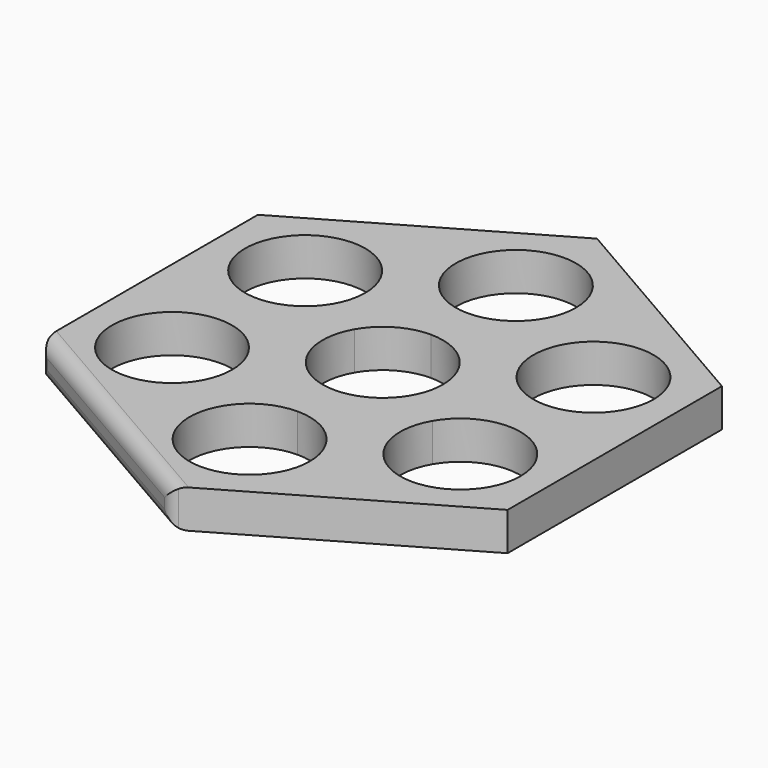
from build123d import *

# Parameters (mm, degrees)
F1_DEPTH = 6.985
F2_R     = 2.54


with BuildPart() as f1:
    # F0 (on Top) → F1 (new body)
    with BuildSketch(Plane.XY):
        with BuildLine():
            ThreePointArc((37.407354, -15.24), (29.246285, -4.604287), (16.860735, -9.73455))
            ThreePointArc((16.860735, -9.73455), (23.546624, -25.875713), (37.407354, -15.24))
        make_face()
        with BuildLine():
            ThreePointArc((11.0109, -30.48), (7.785882, -22.694118), (0, -19.4691))
            ThreePointArc((0, -19.4691), (-7.785882, -38.265882), (11.0109, -30.48))
        make_face()
        with BuildLine():
            ThreePointArc((-15.385554, -15.24), (-15.760742, -12.390169), (-16.860735, -9.73455))
            ThreePointArc((-16.860735, -9.73455), (-37.032167, -18.089831), (-15.385554, -15.24))
        make_face()
        with BuildLine():
            ThreePointArc((-15.385554, 15.24), (-37.032167, 18.089831), (-16.860735, 9.73455))
            ThreePointArc((-16.860735, 9.73455), (-15.760742, 12.390169), (-15.385554, 15.24))
        make_face()
        with BuildLine():
            ThreePointArc((11.0109, 30.48), (-7.785882, 38.265882), (0, 19.4691))
            ThreePointArc((0, 19.4691), (7.785882, 22.694118), (11.0109, 30.48))
        make_face()
        with BuildLine():
            ThreePointArc((37.407354, 15.24), (23.546624, 25.875713), (16.860735, 9.73455))
            ThreePointArc((16.860735, 9.73455), (29.246285, 4.604287), (37.407354, 15.24))
        make_face()
        Polygon((-42.487354, -24.530085), (0, -49.060171), (42.487354, -24.530085), (42.487354, 24.530085), (0, 49.060171), (-42.487354, 24.530085), align=None)
        with BuildLine():
            ThreePointArc((-15.385554, -15.24), (-37.032167, -18.089831), (-16.860735, -9.73455))
            ThreePointArc((-16.860735, -9.73455), (-15.760742, -12.390169), (-15.385554, -15.24))
        make_face(mode=Mode.SUBTRACT)
        with BuildLine():
            ThreePointArc((11.0109, -30.48), (-7.785882, -38.265882), (0, -19.4691))
            ThreePointArc((0, -19.4691), (7.785882, -22.694118), (11.0109, -30.48))
        make_face(mode=Mode.SUBTRACT)
        with BuildLine():
            ThreePointArc((9.535719, 5.50545), (10.635713, 2.849831), (11.0109, 0))
            ThreePointArc((11.0109, 0), (10.635713, -2.849831), (9.535719, -5.50545))
            ThreePointArc((9.535719, -5.50545), (5.50545, -9.535719), (0, -11.0109))
            ThreePointArc((0, -11.0109), (-5.50545, -9.535719), (-9.535719, -5.50545))
            ThreePointArc((-9.535719, -5.50545), (-11.0109, 0), (-9.535719, 5.50545))
            ThreePointArc((-9.535719, 5.50545), (-5.50545, 9.535719), (0, 11.0109))
            ThreePointArc((0, 11.0109), (5.50545, 9.535719), (9.535719, 5.50545))
        make_face(mode=Mode.SUBTRACT)
        with BuildLine():
            ThreePointArc((37.407354, -15.24), (23.546624, -25.875713), (16.860735, -9.73455))
            ThreePointArc((16.860735, -9.73455), (29.246285, -4.604287), (37.407354, -15.24))
        make_face(mode=Mode.SUBTRACT)
        with BuildLine():
            ThreePointArc((-15.385554, 15.24), (-15.760742, 12.390169), (-16.860735, 9.73455))
            ThreePointArc((-16.860735, 9.73455), (-37.032167, 18.089831), (-15.385554, 15.24))
        make_face(mode=Mode.SUBTRACT)
        with BuildLine():
            ThreePointArc((37.407354, 15.24), (29.246285, 4.604287), (16.860735, 9.73455))
            ThreePointArc((16.860735, 9.73455), (23.546624, 25.875713), (37.407354, 15.24))
        make_face(mode=Mode.SUBTRACT)
        with BuildLine():
            ThreePointArc((11.0109, 30.48), (7.785882, 22.694118), (0, 19.4691))
            ThreePointArc((0, 19.4691), (-7.785882, 38.265882), (11.0109, 30.48))
        make_face(mode=Mode.SUBTRACT)
    extrude(amount=F1_DEPTH)

    # F2
    f2_edges = [f1.edges().sort_by_distance(p)[0] for p in [
        (-42.487354, -24.530085, 3.4925),
        (0, -49.060171, 3.4925),
        (-21.243677, -36.795128, 0),
        (-21.243677, -36.795128, 6.985),
    ]]
    fillet(f2_edges, radius=F2_R)


solid = f1.part
